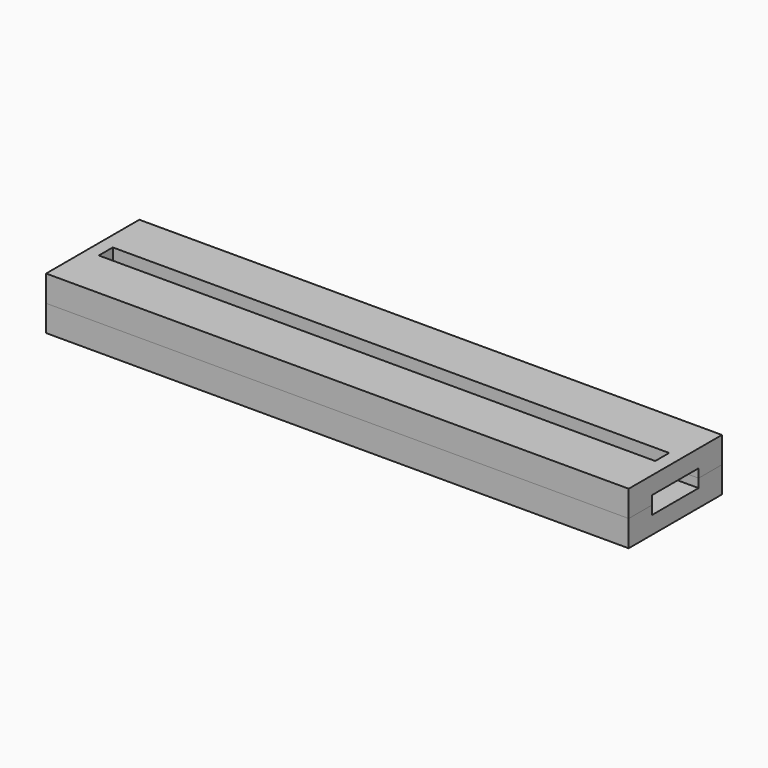
from build123d import *

# Parameters (mm, degrees)
BOX_BOTTOM_HALF_0_W     = 102
BOX_BOTTOM_HALF_0_H     = 22
BOX_BOTTOM_HALF_0_DEPTH = 5.5
SKETCH_W                = 100
SKETCH_H                = 20
PAD_DEPTH               = 3
SKETCH001_W             = 100
SKETCH001_H             = 5
PAD001_DEPTH            = 3
SKETCH002_W             = 100
SKETCH002_H             = 20
SKETCH002_W_2           = 95.5
SKETCH002_H_2           = 3
PAD002_DEPTH            = 3


with BuildPart() as box_bottom_half_0_body:
    # box_bottom_half_0 → box_bottom_half_0 (new body)
    with BuildSketch(Plane(origin=(-51, -11, -1), x_dir=(1, 0, 0), z_dir=(0, 0, 1))):
        with Locations((51, 11)):
            Rectangle(BOX_BOTTOM_HALF_0_W, BOX_BOTTOM_HALF_0_H)
    extrude(amount=BOX_BOTTOM_HALF_0_DEPTH)


with BuildPart() as body:
    # Sketch → Pad (new body)
    with BuildSketch(Plane.XY):
        Rectangle(SKETCH_W, SKETCH_H)
    extrude(amount=PAD_DEPTH)

    # Sketch001 (on Face6 of Pad) → Pad001 (join)
    with BuildSketch(Plane.XY.offset(3)):
        with Locations((0, 7.5)):
            Rectangle(SKETCH001_W, SKETCH001_H)
        with Locations((0, -7.5)):
            Rectangle(SKETCH001_W, SKETCH001_H)
    extrude(amount=PAD001_DEPTH)

    # Sketch002 (on Face12 of Pad001) → Pad002 (join)
    with BuildSketch(Plane.XY.offset(6)):
        Rectangle(SKETCH002_W, SKETCH002_H)
        Rectangle(SKETCH002_W_2, SKETCH002_H_2, mode=Mode.SUBTRACT)
    extrude(amount=PAD002_DEPTH)


with BuildPart() as bottom_half_0_body:
    # bottom_half_0 base: copy of Body
    add(body.part)

    # bottom_half_0: intersect box_bottom_half_0 body
    add(box_bottom_half_0_body.part, mode=Mode.INTERSECT)


with BuildPart() as top_half_0_body:
    # top_half_0 base: copy of Body
    add(body.part)

    # top_half_0: cut box_bottom_half_0 body
    add(box_bottom_half_0_body.part, mode=Mode.SUBTRACT)


solid = Compound([bottom_half_0_body.part, top_half_0_body.part])
